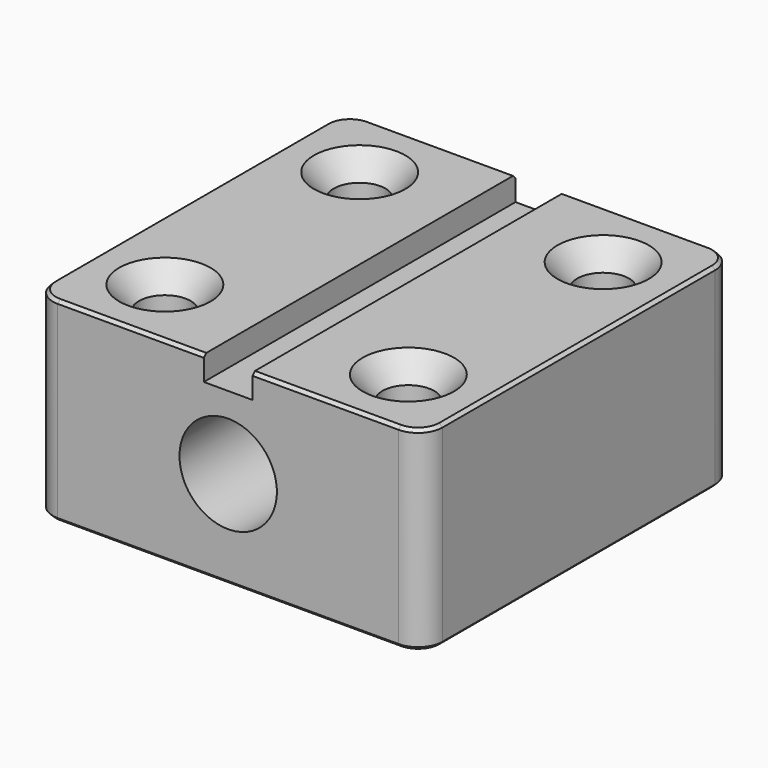
from build123d import *

# Parameters (mm, degrees)
F1_DEPTH       = 50.8
F3_D           = 13.49248
F3_CSINK_D     = 23.8252
F3_CSINK_ANGLE = 82
F4_R           = 6.35
F5_SIZE        = 0.8128
F7_D           = 25.4


with BuildPart() as f1:
    # F0 (on Front) → F1 (new body, symmetric)
    with BuildSketch(Plane.XZ):
        Polygon((-6.35, 25.4), (-50.8, 25.4), (-50.8, -25.4), (50.8, -25.4), (50.8, 25.4), (6.35, 25.4), (6.35, 19.05), (-6.35, 19.05), align=None)
    extrude(amount=F1_DEPTH, both=True)

    # F3 (through all)
    with Locations(Plane.XY.offset(25.4)):
        with Locations((-31.75, 31.75), (31.75, 31.75), (31.75, -31.75), (-31.75, -31.75)):
            CounterSinkHole(F3_D / 2, F3_CSINK_D / 2, counter_sink_angle=F3_CSINK_ANGLE)

    # F4
    f4_edges = [f1.edges().sort_by_distance(p)[0] for p in [
        (50.8, -50.8, 0),
        (-50.8, -50.8, 0),
        (-50.8, 50.8, 0),
        (50.8, 50.8, 0),
    ]]
    fillet(f4_edges, radius=F4_R)

    # F5
    f5_edges = [f1.edges().sort_by_distance(p)[0] for p in [
        (25.4, -50.8, 25.4),
        (-50.8, 0, 25.4),
        (0, 50.8, -25.4),
    ]]
    chamfer(f5_edges, length=F5_SIZE)

    # F7 (through all)
    with Locations(Plane.XZ.offset(50.8)):
        with Locations((0, 0)):
            Hole(F7_D / 2)


solid = f1.part
